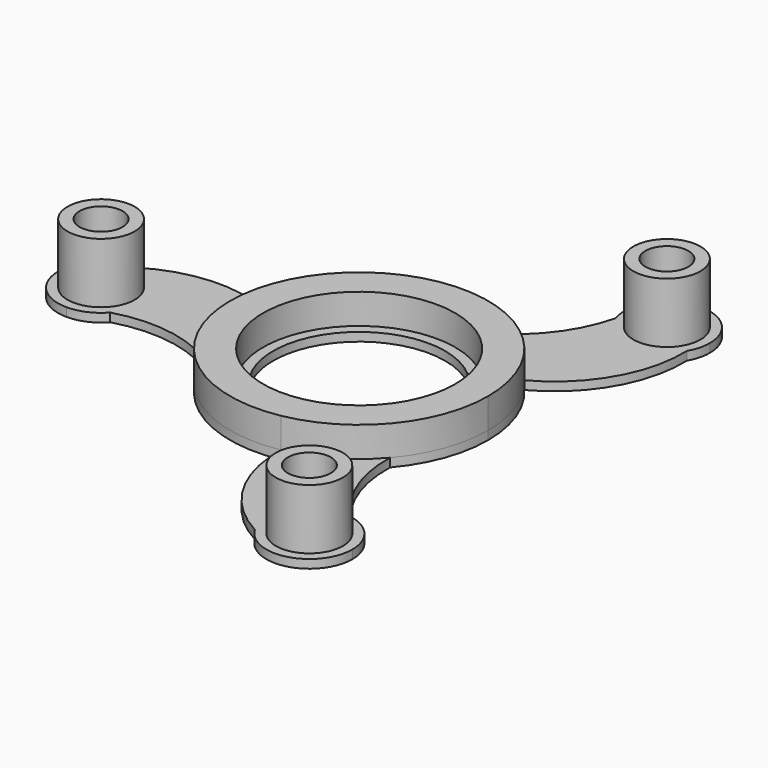
from build123d import *

# Parameters (mm, degrees)
F0_R     = 11.175
F0_R_2   = 10
F0_R_3   = 3.9
F0_R_4   = 2.5
F1_DEPTH = 1
F2_DEPTH = 7
F3_DEPTH = 3.5


with BuildPart() as f1:
    # F0 (on Top) → F1 (new body)
    with BuildSketch(Plane.XY):
        with BuildLine():
            ThreePointArc((11.4011948308, -9.7474487139), (14.0715656993, -5.1952900563), (15, 0))
            ThreePointArc((15, 0), (14.0715656993, 5.1952900563), (11.4011948308, 9.7474487139))
            ThreePointArc((11.4011948308, 9.7474487139), (7.5, 12.9903810568), (2.7409407929, 14.7474487139))
            ThreePointArc((2.7409407929, 14.7474487139), (-7.5, 12.9903810568), (-14.1421356237, 5))
            ThreePointArc((-14.1421356237, 5), (-15, 0), (-14.1421356237, -5))
            ThreePointArc((-14.1421356237, -5), (-7.5, -12.9903810568), (2.7409407929, -14.7474487139))
            ThreePointArc((2.7409407929, -14.7474487139), (7.5, -12.9903810568), (11.4011948308, -9.7474487139))
        make_face()
        Circle(F0_R, mode=Mode.SUBTRACT)
        Circle(F0_R)
        Circle(F0_R_2, mode=Mode.SUBTRACT)
        with BuildLine():
            ThreePointArc((-14.1421356237, -5), (-15, 0), (-14.1421356237, 5))
            ThreePointArc((-14.1421356237, 5), (-22.0710678119, 7.2668921957), (-30, 5))
            ThreePointArc((-30, 5), (-26.4644660941, 3.5355339059), (-25, 0))
            ThreePointArc((-25, 0), (-25.3292685703, -1.7844517118), (-26.2737071647, -3.333877878))
            ThreePointArc((-26.2737071647, -3.333877878), (-20.0301598509, -2.8725999161), (-14.1421356237, -5))
        make_face()
        with BuildLine():
            ThreePointArc((2.7409407929, 14.7474487139), (7.5, 12.9903810568), (11.4011948308, 9.7474487139))
            ThreePointArc((11.4011948308, 9.7474487139), (17.328847154, 15.4806593159), (19.3301270189, 23.4807621135))
            ThreePointArc((19.3301270189, 23.4807621135), (14.4852262544, 21.0073319099), (10.2496306469, 24.4206367952))
            ThreePointArc((10.2496306469, 24.4206367952), (7.5273354232, 18.7829272308), (2.7409407929, 14.7474487139))
        make_face()
        with BuildLine():
            ThreePointArc((16.0240765178, -21.0867589172), (12.5028244277, -15.9103273147), (11.4011948308, -9.7474487139))
            ThreePointArc((11.4011948308, -9.7474487139), (7.5, -12.9903810568), (2.7409407929, -14.7474487139))
            ThreePointArc((2.7409407929, -14.7474487139), (4.7422206579, -22.7475515116), (10.6698729811, -28.4807621135))
            ThreePointArc((10.6698729811, -28.4807621135), (10.9502699725, -23.0482398708), (16.0240765178, -21.0867589172))
        make_face()
        with BuildLine():
            ThreePointArc((-25, 0), (-26.4644660941, 3.5355339059), (-30, 5))
            ThreePointArc((-30, 5), (-35, 0), (-30, -5))
            ThreePointArc((-30, -5), (-28.1937916946, -4.0395964849), (-26.2737071647, -3.333877878))
            ThreePointArc((-26.2737071647, -3.333877878), (-25.3292685703, -1.7844517118), (-25, 0))
        make_face()
        with Locations((-30, 0)):
            Circle(F0_R_3, mode=Mode.SUBTRACT)
        with BuildLine():
            ThreePointArc((19.3301270189, -23.4807621135), (17.5952890243, -22.3967415941), (16.0240765178, -21.0867589172))
            ThreePointArc((16.0240765178, -21.0867589172), (10.9502699725, -23.0482398708), (10.6698729811, -28.4807621135))
            ThreePointArc((10.6698729811, -28.4807621135), (16.2940952255, -30.810391245), (20, -25.9807621135))
            ThreePointArc((20, -25.9807621135), (19.8296291314, -24.686666888), (19.3301270189, -23.4807621135))
        make_face()
        with Locations((15, -25.9807621135)):
            Circle(F0_R_3, mode=Mode.SUBTRACT)
        with BuildLine():
            ThreePointArc((10.2496306469, 24.4206367952), (14.4852262544, 21.0073319099), (19.3301270189, 23.4807621135))
            ThreePointArc((19.3301270189, 23.4807621135), (19.8296291314, 24.686666888), (20, 25.9807621135))
            ThreePointArc((20, 25.9807621135), (16.2940952255, 30.810391245), (10.6698729811, 28.4807621135))
            ThreePointArc((10.6698729811, 28.4807621135), (10.5985026704, 26.436338079), (10.2496306469, 24.4206367952))
        make_face()
        with Locations((15, 25.9807621135)):
            Circle(F0_R_3, mode=Mode.SUBTRACT)
        with Locations((-30, 0)):
            Circle(F0_R_3)
        with Locations((-30, 0)):
            Circle(F0_R_4, mode=Mode.SUBTRACT)
        with Locations((15, -25.9807621135)):
            Circle(F0_R_3)
        with Locations((15, -25.9807621135)):
            Circle(F0_R_4, mode=Mode.SUBTRACT)
        with Locations((15, 25.9807621135)):
            Circle(F0_R_3)
        with Locations((15, 25.9807621135)):
            Circle(F0_R_4, mode=Mode.SUBTRACT)
        with Locations((-30, 0)):
            Circle(F0_R_4)
        with Locations((15, -25.9807621135)):
            Circle(F0_R_4)
        with Locations((15, 25.9807621135)):
            Circle(F0_R_4)
        with BuildLine():
            ThreePointArc((-30, -5), (-27.9590920391, -4.5645037731), (-26.2737071647, -3.333877878))
            ThreePointArc((-26.2737071647, -3.333877878), (-28.1937916946, -4.0395964849), (-30, -5))
        make_face()
        with BuildLine():
            ThreePointArc((19.3301270189, -23.4807621135), (17.9325222427, -21.931032086), (16.0240765178, -21.0867589172))
            ThreePointArc((16.0240765178, -21.0867589172), (17.5952890243, -22.3967415941), (19.3301270189, -23.4807621135))
        make_face()
        with BuildLine():
            ThreePointArc((10.6698729811, 28.4807621135), (10.0265697963, 26.4955358592), (10.2496306469, 24.4206367952))
            ThreePointArc((10.2496306469, 24.4206367952), (10.5985026704, 26.436338079), (10.6698729811, 28.4807621135))
        make_face()
    extrude(amount=-F1_DEPTH)

    # F0 (on Top) → F2 (join)
    with BuildSketch(Plane.XY):
        with Locations((-30, 0)):
            Circle(F0_R_3)
        with Locations((-30, 0)):
            Circle(F0_R_4, mode=Mode.SUBTRACT)
        with Locations((15, 25.9807621135)):
            Circle(F0_R_3)
        with Locations((15, 25.9807621135)):
            Circle(F0_R_4, mode=Mode.SUBTRACT)
        with Locations((15, -25.9807621135)):
            Circle(F0_R_3)
        with Locations((15, -25.9807621135)):
            Circle(F0_R_4, mode=Mode.SUBTRACT)
    extrude(amount=F2_DEPTH)

    # F0 (on Top) → F3 (join)
    with BuildSketch(Plane.XY):
        with BuildLine():
            ThreePointArc((11.4011948308, -9.7474487139), (14.0715656993, -5.1952900563), (15, 0))
            ThreePointArc((15, 0), (14.0715656993, 5.1952900563), (11.4011948308, 9.7474487139))
            ThreePointArc((11.4011948308, 9.7474487139), (7.5, 12.9903810568), (2.7409407929, 14.7474487139))
            ThreePointArc((2.7409407929, 14.7474487139), (-7.5, 12.9903810568), (-14.1421356237, 5))
            ThreePointArc((-14.1421356237, 5), (-15, 0), (-14.1421356237, -5))
            ThreePointArc((-14.1421356237, -5), (-7.5, -12.9903810568), (2.7409407929, -14.7474487139))
            ThreePointArc((2.7409407929, -14.7474487139), (7.5, -12.9903810568), (11.4011948308, -9.7474487139))
        make_face()
        Circle(F0_R, mode=Mode.SUBTRACT)
    extrude(amount=F3_DEPTH)


solid = f1.part
